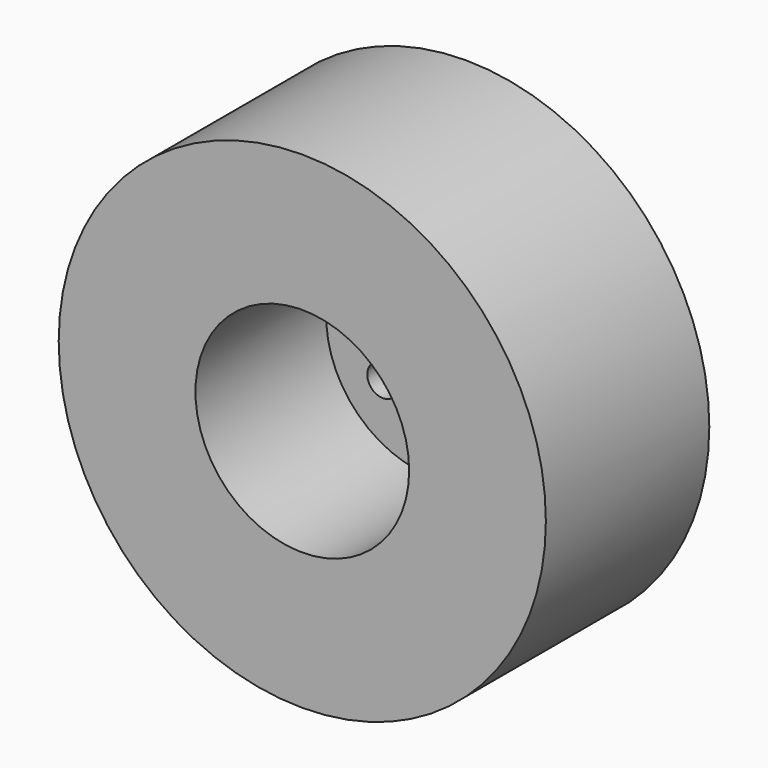
from build123d import *

# Parameters (mm, degrees)
F0_R     = 19.685
F1_DEPTH = 16.51
F2_R     = 8.636
F3_DEPTH = 13.208
F4_R     = 3.175
F5_DEPTH = 8.89
F6_R     = 1.273629
F7_DEPTH = 25.4


with BuildPart() as f1:
    # F0 (on Front) → F1 (new body)
    with BuildSketch(Plane.XZ):
        Circle(F0_R)
    extrude(amount=-F1_DEPTH)

    # F2 (on Front) → F3 (cut)
    with BuildSketch(Plane.XZ):
        Circle(F2_R)
    extrude(amount=-F3_DEPTH, mode=Mode.SUBTRACT)

    # F4 (on face) → F5 (join)
    with BuildSketch(Plane(origin=(0, 16.51, 0), x_dir=(-1, 0, 0), z_dir=(0, 1, 0))):
        Circle(F4_R)
    extrude(amount=F5_DEPTH)

    # F6 (on face) → F7 (cut)
    with BuildSketch(Plane.XZ.offset(-13.208)):
        with BuildLine():
            ThreePointArc((5.419761, 3.070403), (3.609433, 4.371419), (2.953539, 2.240753))
            ThreePointArc((2.953539, 2.240753), (4.484769, 1.769387), (5.419761, 3.070403))
        make_face()
        with BuildLine():
            ThreePointArc((6.868104, 0), (5.598104, 1.27), (4.328104, 0))
            ThreePointArc((4.328104, 0), (5.598104, -1.27), (6.868104, 0))
        make_face()
        with BuildLine():
            ThreePointArc((5.317101, -3.070403), (4.452036, -1.866689), (3.035326, -2.302802))
            ThreePointArc((3.035326, -2.302802), (3.642166, -4.274117), (5.317101, -3.070403))
        make_face()
        with BuildLine():
            ThreePointArc((-2.777101, -3.070403), (-2.843387, -2.665467), (-3.035326, -2.302802))
            ThreePointArc((-3.035326, -2.302802), (-5.250815, -3.475338), (-2.777101, -3.070403))
        make_face()
        with BuildLine():
            ThreePointArc((1.27, -5.08), (0.898026, -4.181974), (0, -3.81))
            ThreePointArc((0, -3.81), (-0.898026, -5.978026), (1.27, -5.08))
        make_face()
        with Locations((-4.561896, 0)):
            Circle(F6_R)
        with BuildLine():
            ThreePointArc((-2.777101, 3.070403), (-5.250815, 3.475338), (-3.035326, 2.302802))
            ThreePointArc((-3.035326, 2.302802), (-2.843387, 2.665467), (-2.777101, 3.070403))
        make_face()
        with BuildLine():
            ThreePointArc((1.27, 5.08), (-0.898026, 5.978026), (0, 3.81))
            ThreePointArc((0, 3.81), (0.898026, 4.181974), (1.27, 5.08))
        make_face()
    extrude(amount=-F7_DEPTH, mode=Mode.SUBTRACT)


solid = f1.part
